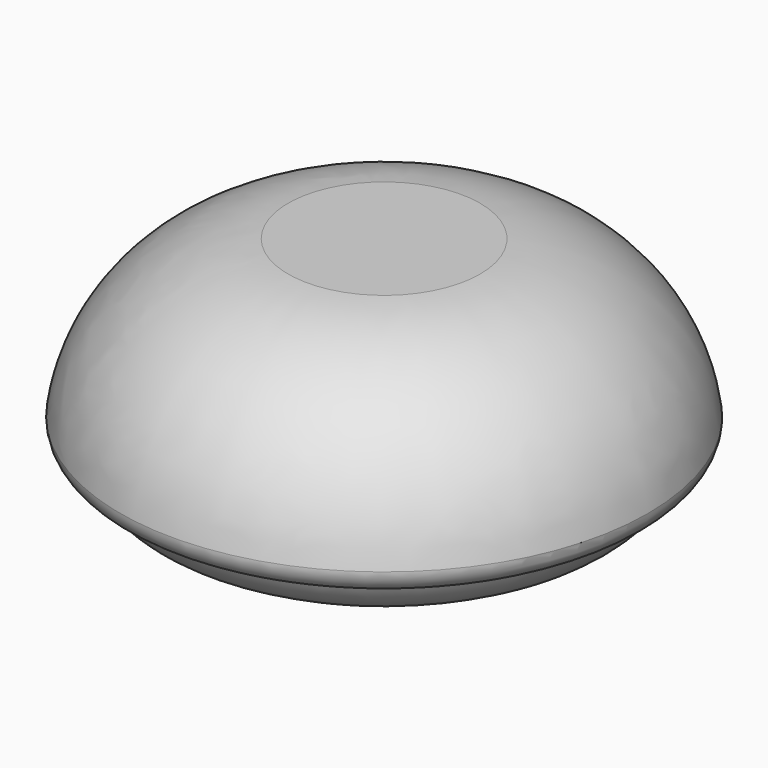
from build123d import *


with BuildPart() as f1:
    # F0 (on Front) → F1 (revolve)
    with BuildSketch(Plane.XZ):
        with BuildLine():
            Line((8, 0), (0, 0))
            Line((0, 0), (0, -20))
            Line((0, -20), (15, -18.658705))
            ThreePointArc((15, -18.658705), (18.008781, -17.524654), (20, -15))
            ThreePointArc((20, -15), (21.414214, -14.414214), (22, -13))
            ThreePointArc((22, -13), (17.337327, -3.982879), (8, 0))
        make_face()
    revolve(axis=Axis((0, 0, -10), (0, 0, 1)))


solid = f1.part
